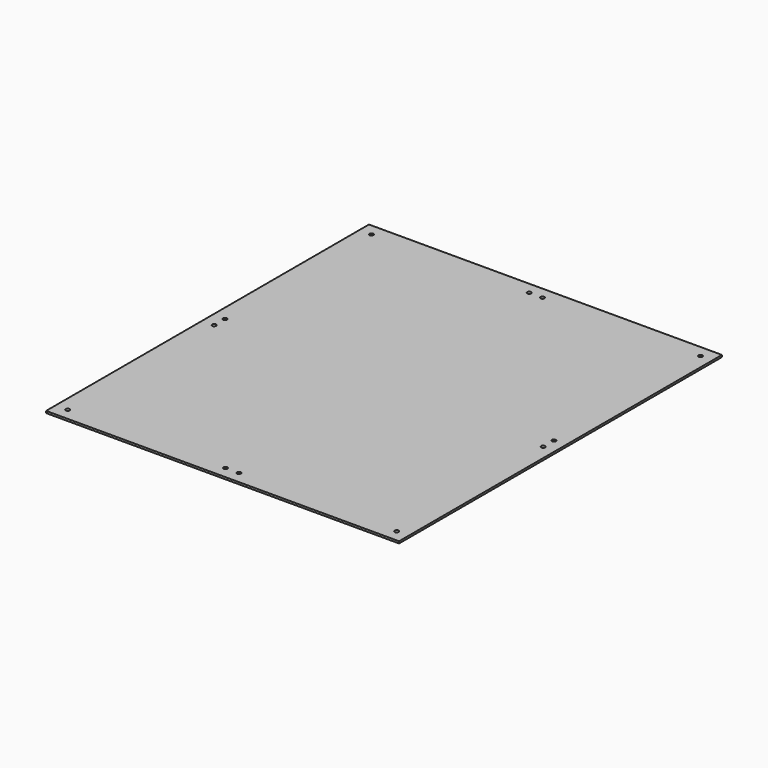
from build123d import *

# Parameters (mm, degrees)
F0_W     = 530
F0_H     = 606
F0_R     = 3
F1_DEPTH = 3


with BuildPart() as f1:
    # F0 (on Top) → F1 (new body)
    with BuildSketch(Plane.XY):
        with Locations((-265, 303)):
            Rectangle(F0_W, F0_H)
        with Locations((-512, 18)):
            Circle(F0_R, mode=Mode.SUBTRACT)
        with Locations((-275, 18)):
            Circle(F0_R, mode=Mode.SUBTRACT)
        with Locations((-512, 293)):
            Circle(F0_R, mode=Mode.SUBTRACT)
        with Locations((-255, 18)):
            Circle(F0_R, mode=Mode.SUBTRACT)
        with Locations((-18, 18)):
            Circle(F0_R, mode=Mode.SUBTRACT)
        with Locations((-18, 293)):
            Circle(F0_R, mode=Mode.SUBTRACT)
        with Locations((-512, 313)):
            Circle(F0_R, mode=Mode.SUBTRACT)
        with Locations((-512, 588)):
            Circle(F0_R, mode=Mode.SUBTRACT)
        with Locations((-275, 588)):
            Circle(F0_R, mode=Mode.SUBTRACT)
        with Locations((-18, 313)):
            Circle(F0_R, mode=Mode.SUBTRACT)
        with Locations((-255, 588)):
            Circle(F0_R, mode=Mode.SUBTRACT)
        with Locations((-18, 588)):
            Circle(F0_R, mode=Mode.SUBTRACT)
    extrude(amount=F1_DEPTH)


solid = f1.part
